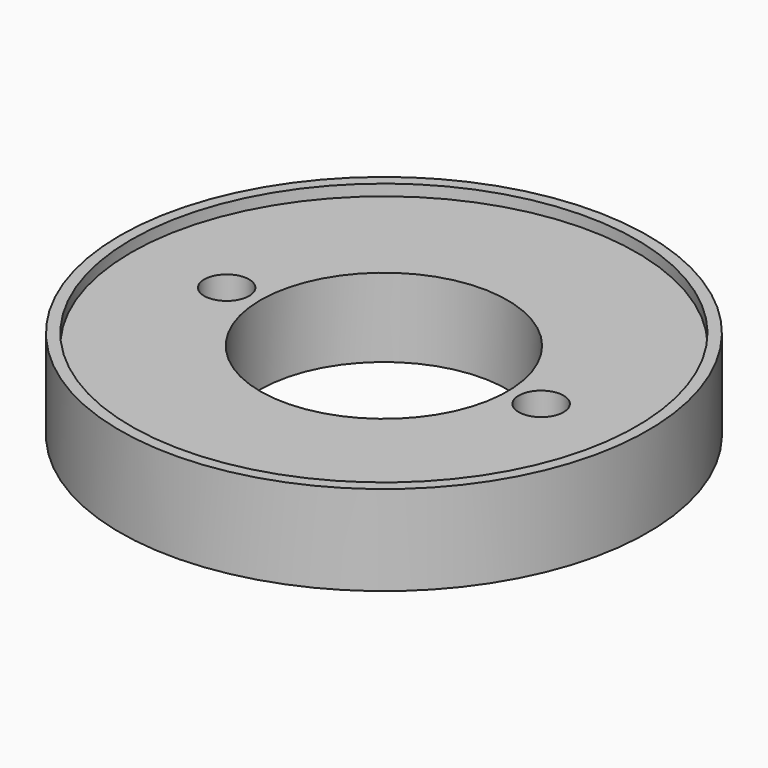
from build123d import *

# Parameters (mm, degrees)
F3_D = 4


with BuildPart() as f1:
    # F0 (on Front) → F1 (revolve)
    with BuildSketch(Plane.XZ):
        Polygon((-23.5, 20.620037), (-11, 20.620037), (-11, 27.620037), (-22.5, 27.620037), (-22.5, 28.620037), (-23.5, 28.620037), align=None)
    revolve(axis=Axis((0, 0, 24.120037), (0, 0, -1)))

    # F3 (through all)
    with Locations(Plane(origin=(0, 0, 20.620037), x_dir=(1, 0, 0), z_dir=(0, 0, -1))):
        with Locations((-14, 0), (14, 0)):
            Hole(F3_D / 2)


solid = f1.part
